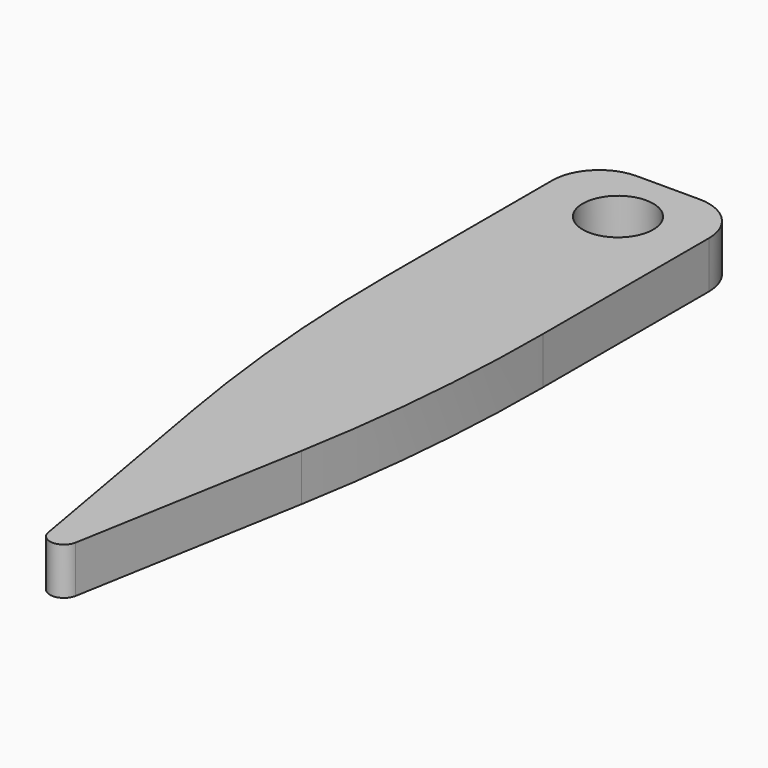
from build123d import *

# Parameters (mm, degrees)
PAD_DEPTH    = 3
FILLET_R     = 100
FILLET001_R  = 3
SKETCH001_R  = 2.25
POCKET_DEPTH = 5


with BuildPart() as part:
    # Sketch → Pad (new body)
    with BuildSketch(Plane.XY):
        with BuildLine():
            Line((-5, 12.5), (5, 12.5))
            Line((5, 12.5), (5, -12.5))
            Line((0.877121, -35.882006), (5, -12.5))
            ThreePointArc((-0.877121, -35.882006), (0, -36.617999), (0.877121, -35.882006))
            Line((-5, -12.5), (-0.877121, -35.882006))
            Line((-5, -12.5), (-5, 12.5))
        make_face()
    extrude(amount=PAD_DEPTH)

    # Fillet
    fillet_edges = [part.edges().sort_by_distance(p)[0] for p in [
        (5, -12.5, 1.5),
        (-5, -12.5, 1.5),
    ]]
    fillet(fillet_edges, radius=FILLET_R)

    # Fillet001
    fillet001_edges = [part.edges().sort_by_distance(p)[0] for p in [
        (5, 12.5, 1.5),
        (-5, 12.5, 1.5),
    ]]
    fillet(fillet001_edges, radius=FILLET001_R)

    # Sketch001 (on Face5 of Fillet001) → Pocket (cut)
    with BuildSketch(Plane.XY.offset(3)):
        with Locations((0, 8.5)):
            Circle(SKETCH001_R)
    extrude(amount=-POCKET_DEPTH, mode=Mode.SUBTRACT)


solid = part.part
